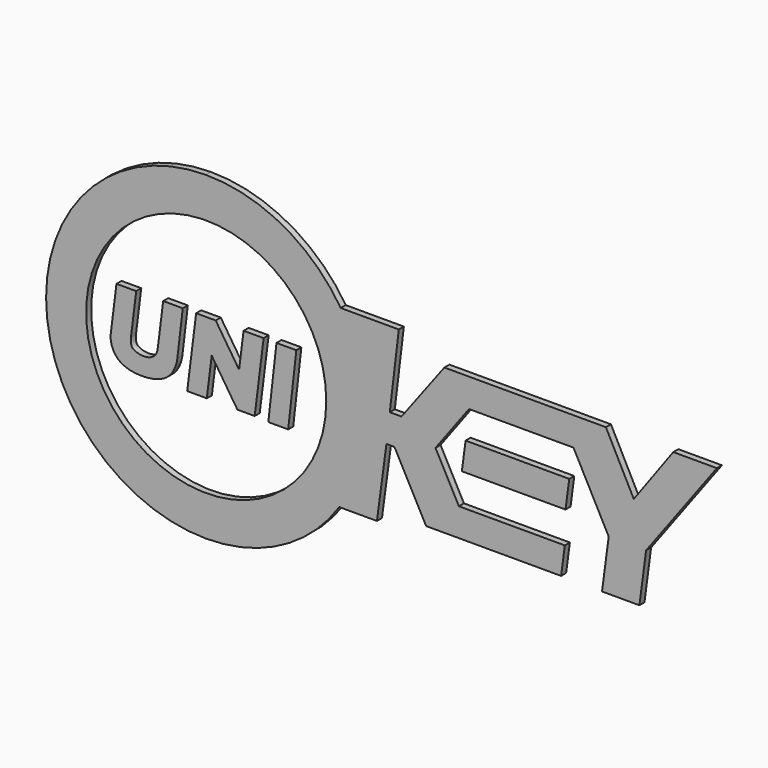
from build123d import *

# Parameters (mm, degrees)
F2_DEPTH = 1
F1_R     = 19.05
F3_SCALE = 0.4


with BuildPart() as f2:
    # F1 (on Front) → F2 (new body)
    with BuildSketch(Plane.XZ):
        Polygon((82.9961871263, 27.0818155259), (66.5535926819, 27.0818155259), (65.9620339516, 22.6049686938), (82.404628396, 22.6049686938), align=None)
    extrude(amount=F2_DEPTH)


with BuildPart() as f2b:
    # F1 (on Front) → F2, piece 2 (new body)
    with BuildSketch(Plane.XZ):
        with BuildLine():
            ThreePointArc((46.7516648161, 39.1574128956), (49.7669067213, 32.5703456566), (50.8, 25.4))
            ThreePointArc((50.8, 25.4), (49.7048843477, 18.0221549998), (46.5139687522, 11.2804984674))
            Line((46.5139687522, 11.2804984674), (52.4864755571, 11.2804984674))
            Line((52.4864755571, 11.2804984674), (53.9994613201, 22.5333180279))
            Line((53.9994613201, 22.5333180279), (55.2576243713, 22.5333180279))
            Line((55.2576243713, 22.5333180279), (60.2951698917, 13.1082339212))
            Line((60.2951698917, 13.1082339212), (81.7060988754, 13.1082339212))
            Line((81.7060988754, 13.1082339212), (82.295195533, 17.5664480776))
            Line((82.295195533, 17.5664480776), (65.4909238219, 17.5664480776))
            Line((65.4909238219, 17.5664480776), (61.780732125, 24.5080962777))
            Line((61.780732125, 24.5080962777), (67.0903518244, 31.6653137458))
            Line((67.0903518244, 31.6653137458), (83.6714297758, 31.6653137458))
            Line((83.6714297758, 31.6653137458), (89.2562275008, 21.0553194691))
            Line((89.2562275008, 21.0553194691), (88.1979187112, 13.0461631343))
            Line((88.1979187112, 13.0461631343), (94.1299913311, 13.0461631343))
            Line((94.1299913311, 13.0461631343), (95.1883001206, 21.0553194691))
            Line((95.1883001206, 21.0553194691), (106.4187288825, 36.1936204135))
            Line((106.4187288825, 36.1936204135), (99.5046484973, 36.1936204135))
            Line((99.5046484973, 36.1936204135), (93.2316854596, 27.6011060923))
            Line((93.2316854596, 27.6011060923), (88.8152111079, 36.1936204135))
            Line((88.8152111079, 36.1936204135), (63.1883591413, 36.1936204135))
            Line((63.1883591413, 36.1936204135), (56.3835725188, 27.1342098713))
            Line((56.3835725188, 27.1342098713), (54.5240081847, 27.1342098713))
            Line((54.5240081847, 27.1342098713), (55.960258209, 39.1574128956))
            Line((55.960258209, 39.1574128956), (46.7516648161, 39.1574128956))
        make_face()
        with BuildLine():
            ThreePointArc((46.5139687522, 11.2804984674), (49.7048843477, 18.0221549998), (50.8, 25.4))
            ThreePointArc((50.8, 25.4), (49.7669067213, 32.5703456566), (46.7516648161, 39.1574128956))
            ThreePointArc((46.7516648161, 39.1574128956), (37.5598049419, 47.7002050164), (25.4, 50.8))
            ThreePointArc((25.4, 50.8), (0, 25.4), (25.4, 0))
            ThreePointArc((25.4, 0), (37.369224308, 2.9969272316), (46.5139687522, 11.2804984674))
        make_face()
        with Locations((25.4, 25.4)):
            Circle(F1_R, mode=Mode.SUBTRACT)
    extrude(amount=F2_DEPTH)


with BuildPart() as f2c:
    # F1 (on Front) → F2, piece 3 (new body)
    with BuildSketch(Plane.XZ):
        Polygon((23.8046244951, 30.968748033), (22.3884135485, 19.6296200156), (25.4960613407, 19.6296200156), (26.2750982098, 25.867108018), (30.3509384394, 19.6296200156), (33.0948494375, 19.6296200156), (34.5110603841, 30.968748033), (31.3294984272, 30.968748033), (30.6206891305, 25.2935487457), (26.9122722874, 30.968748033), align=None)
    extrude(amount=F2_DEPTH)


with BuildPart() as f2d:
    # F1 (on Front) → F2, piece 4 (new body)
    with BuildSketch(Plane.XZ):
        with BuildLine():
            Line((20.8305145293, 23.7536086845), (21.6873288155, 30.968748033))
            Line((21.6873288155, 30.968748033), (18.5763090849, 30.968748033))
            Line((18.5763090849, 30.968748033), (17.7352244653, 24.2344644173))
            add(Edge.make_bspline(
                [(13.4605423235, 24.2344644173), (13.4004651698, 23.7534467142), (13.442377269, 22.8075392295), (14.6638588286, 22.2768183453), (16.217162271, 22.1857318889), (17.4776914113, 22.9427442388), (17.6813921624, 23.803447148), (17.7352244653, 24.2344644173)],
                knots=[0, 0, 0, 0, 0.1990339161, 0.3870519636, 0.6036244782, 0.8049251901, 1, 1, 1, 1], degree=3))
            Line((13.4605423235, 24.2344644173), (14.3016269431, 30.968748033))
            Line((14.3016269431, 30.968748033), (11.1668603495, 30.968748033))
            Line((11.1668603495, 30.968748033), (10.2657188057, 23.7536086845))
            add(Edge.make_bspline(
                [(10.2657188057, 23.7536086845), (10.1380010349, 22.7310151535), (10.727591852, 20.7721022488), (13.1601639773, 19.3592225237), (16.9069217065, 19.3258496174), (19.8142521895, 20.5617271867), (20.6970567317, 22.6297751743), (20.8305145293, 23.7536086845)],
                knots=[0, 0, 0, 0, 0.1932762379, 0.3783953082, 0.597878443, 0.7957637049, 1, 1, 1, 1], degree=3))
        make_face()
    extrude(amount=F2_DEPTH)


with BuildPart() as f2e:
    # F1 (on Front) → F2, piece 5 (new body)
    with BuildSketch(Plane.XZ):
        Polygon((39.7005101856, 30.968748033), (36.5480764028, 30.968748033), (35.2561064065, 19.489273097), (38.4085401893, 19.489273097), align=None)
    extrude(amount=F2_DEPTH)


with BuildPart() as f2d_1:
    # F3: moved
    add(f2d.part.scale(F3_SCALE))


with BuildPart() as f2e_1:
    # F3: moved
    add(f2e.part.scale(F3_SCALE))


with BuildPart() as f2c_1:
    # F3: moved
    add(f2c.part.scale(F3_SCALE))


with BuildPart() as f2_1:
    # F3: moved
    add(f2.part.scale(F3_SCALE))


with BuildPart() as f2b_1:
    # F3: moved
    add(f2b.part.scale(F3_SCALE))


solid = Compound([f2d_1.part, f2e_1.part, f2c_1.part, f2_1.part, f2b_1.part])
